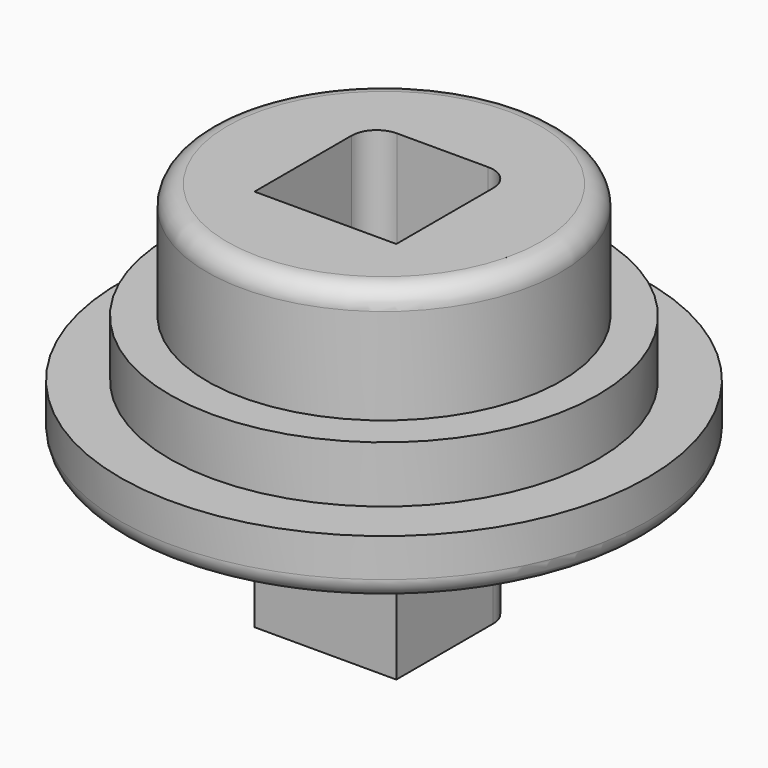
from build123d import *

# Parameters (mm, degrees)
F1_DEPTH = 58.166
F2_DEPTH = 28.956
F0_R     = 66.4339027136
F3_DEPTH = 14.732
F4_DEPTH = 38.354
F5_R     = 5.08
F6_R     = 5.08


with BuildPart() as f1:
    # F0 (on Top) → F1 (new body)
    with BuildSketch(Plane.XY):
        with BuildLine():
            ThreePointArc((-44.5371092992, 0), (0, -44.5371092992), (44.5371092992, 0))
            ThreePointArc((44.5371092992, 0), (31.4924919999, 31.4924919999), (0, 44.5371092992))
            ThreePointArc((0, 44.5371092992), (-31.4924919999, 31.4924919999), (-44.5371092992, 0))
        make_face()
        with BuildLine():
            ThreePointArc((-17.8439579904, 12.0695693582), (-15.9840860509, 16.5596974188), (-11.4939579904, 18.4195693582))
            Line((-11.4939579904, 18.4195693582), (11.4939579904, 18.4195693582))
            ThreePointArc((11.4939579904, 18.4195693582), (15.9840860509, 16.5596974188), (17.8439579904, 12.0695693582))
            Line((17.8439579904, 12.0695693582), (17.8439579904, -18.4195693582))
            Line((17.8439579904, -18.4195693582), (-17.8439579904, -18.4195693582))
            Line((-17.8439579904, -18.4195693582), (-17.8439579904, 12.0695693582))
        make_face(mode=Mode.SUBTRACT)
    extrude(amount=F1_DEPTH)

    # F0 (on Top) → F2 (join)
    with BuildSketch(Plane.XY):
        with BuildLine():
            ThreePointArc((0, 44.5371092992), (31.4924919999, 31.4924919999), (44.5371092992, 0))
            ThreePointArc((44.5371092992, 0), (0, -44.5371092992), (-44.5371092992, 0))
            Line((-44.5371092992, 0), (-53.86768034, 0))
            ThreePointArc((-53.86768034, 0), (38.0902020552, -38.0902020552), (0, 53.86768034))
            Line((0, 53.86768034), (0, 44.5371092992))
        make_face()
    extrude(amount=F2_DEPTH)

    # F0 (on Top) → F3 (join)
    with BuildSketch(Plane.XY):
        Circle(F0_R)
        with BuildLine():
            ThreePointArc((-44.5371092992, 0), (-31.4924919999, 31.4924919999), (0, 44.5371092992))
            Line((0, 44.5371092992), (0, 53.86768034))
            ThreePointArc((0, 53.86768034), (38.0902020552, -38.0902020552), (-53.86768034, 0))
            Line((-53.86768034, 0), (-44.5371092992, 0))
        make_face(mode=Mode.SUBTRACT)
    extrude(amount=F3_DEPTH)

    # F5
    f5_edges = [f1.edges().sort_by_distance(p)[0] for p in [
        (-66.433903, 0, 0),
    ]]
    fillet(f5_edges, radius=F5_R)

    # F6
    f6_edges = [f1.edges().sort_by_distance(p)[0] for p in [
        (-44.537109, 0, 58.166),
    ]]
    fillet(f6_edges, radius=F6_R)


with BuildPart() as f4:
    # F0 (on Top) → F4 (new body)
    with BuildSketch(Plane.XY):
        with BuildLine():
            Line((11.4939579904, 18.4195693582), (-11.4939579904, 18.4195693582))
            ThreePointArc((-11.4939579904, 18.4195693582), (-15.9840860509, 16.5596974188), (-17.8439579904, 12.0695693582))
            Line((-17.8439579904, 12.0695693582), (-17.8439579904, -18.4195693582))
            Line((-17.8439579904, -18.4195693582), (17.8439579904, -18.4195693582))
            Line((17.8439579904, -18.4195693582), (17.8439579904, 12.0695693582))
            ThreePointArc((17.8439579904, 12.0695693582), (15.9840860509, 16.5596974188), (11.4939579904, 18.4195693582))
        make_face()
    extrude(amount=-F4_DEPTH)


solid = Compound([f1.part, f4.part])
